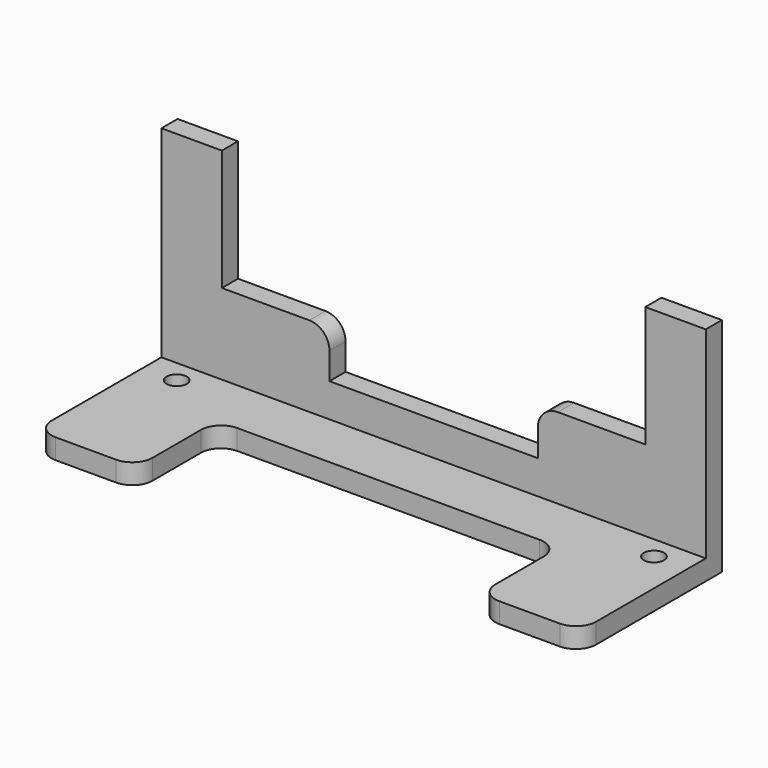
from build123d import *

# Parameters (mm, degrees)
F0_R     = 1.5
F1_DEPTH = 3
F2_W     = 81
F2_H     = 3
F3_DEPTH = 30
F5_DEPTH = 3


with BuildPart() as f1:
    # F0 (on Top) → F1 (new body)
    with BuildSketch(Plane.XY):
        with BuildLine():
            Line((81, 11.4), (0, 11.4))
            Line((0, 11.4), (0, 0))
            Line((0, 0), (0, -12))
            ThreePointArc((0, -12), (0.87868, -14.12132), (3, -15))
            Line((3, -15), (12, -15))
            ThreePointArc((12, -15), (14.12132, -14.12132), (15, -12))
            Line((15, -12), (15, -3))
            ThreePointArc((15, -3), (15.87868, -0.87868), (18, 0))
            Line((18, 0), (63, 0))
            ThreePointArc((63, 0), (65.12132, -0.87868), (66, -3))
            Line((66, -3), (66, -12))
            ThreePointArc((66, -12), (66.87868, -14.12132), (69, -15))
            Line((69, -15), (78, -15))
            ThreePointArc((78, -15), (80.12132, -14.12132), (81, -12))
            Line((81, -12), (81, 0))
            Line((81, 0), (81, 11.4))
        make_face()
        with Locations((5, 5)):
            Circle(F0_R, mode=Mode.SUBTRACT)
        with Locations((76, 5)):
            Circle(F0_R, mode=Mode.SUBTRACT)
    extrude(amount=F1_DEPTH)

    # F2 (on face) → F3 (join)
    with BuildSketch(Plane.XY.offset(3)):
        with Locations((40.5, 9.9)):
            Rectangle(F2_W, F2_H)
    extrude(amount=F3_DEPTH)

    # F4 (on face) → F5 (cut, through all)
    with BuildSketch(Plane.XZ.offset(-8.4)):
        with BuildLine():
            Line((72, 33), (9, 33))
            Line((9, 33), (9, 15))
            Line((9, 15), (22, 15))
            ThreePointArc((22, 15), (24.12132, 14.12132), (25, 12))
            Line((25, 12), (25, 8))
            Line((25, 8), (56, 8))
            Line((56, 8), (56, 12))
            ThreePointArc((56, 12), (56.87868, 14.12132), (59, 15))
            Line((59, 15), (72, 15))
            Line((72, 15), (72, 33))
        make_face()
    extrude(amount=-F5_DEPTH, mode=Mode.SUBTRACT)


solid = f1.part
